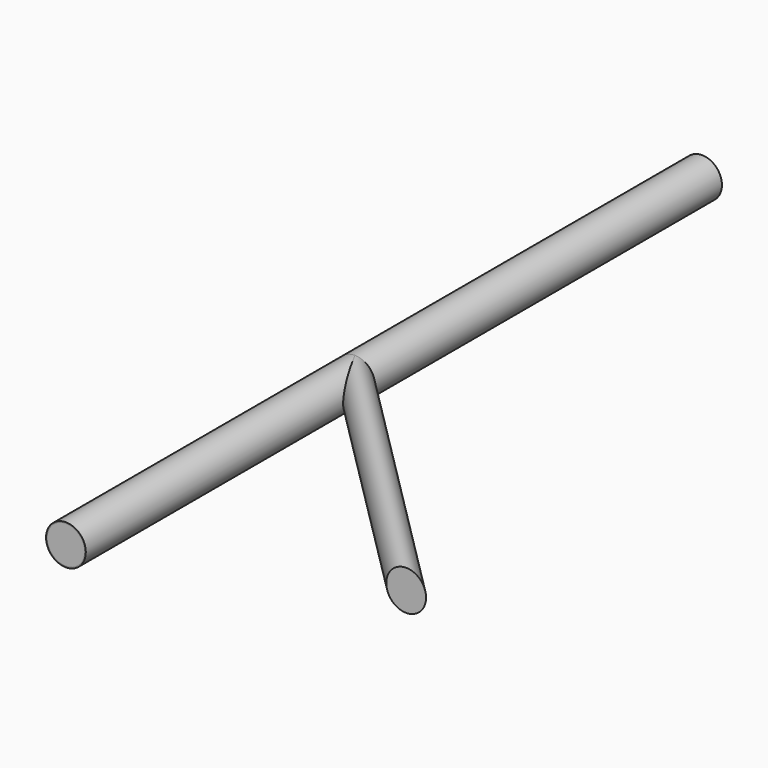
from build123d import *

# Parameters (mm, degrees)
F1_R      = 2.75
F2_FACE_R = 2.75
F5_R      = 2.6
F6_DEPTH  = 25


with BuildPart() as f2:
    # F2: sweep along a path in F0
    with BuildLine(Plane.XY) as f2_path:
        Line((0, 0), (0, -50))
    # F1 (on Front) → F2 (sweep)
    with BuildSketch(Plane.XZ):
        Circle(F1_R)
    sweep(path=f2_path.line)


with BuildPart() as f3:
    # F3: sweep along a path in F0
    with BuildLine(Plane.XY) as f3_path:
        Line((0, 0), (35.355339, -35.355339))
    # F2_face (on face) → F3 (sweep)
    with BuildSketch(Plane(origin=(0, 0, 0), x_dir=(-1, 0, 0), z_dir=(0, 1, 0))):
        Circle(F2_FACE_R)
    sweep(path=f3_path.line)


with BuildPart() as f4:
    # F4: sweep along a path in F0
    with BuildLine(Plane.XY) as f4_path:
        Line((0, 0), (0, 60))
    # F1 (on Front) → F4 (sweep)
    with BuildSketch(Plane.XZ):
        Circle(F1_R)
    sweep(path=f4_path.line)


with BuildPart() as f6:
    # F5 (on face) → F6 (new body)
    with BuildSketch(Plane.XZ.offset(50)):
        Circle(F5_R)
    extrude(amount=-F6_DEPTH)


solid = Compound([f2.part, f3.part, f4.part, f6.part])
